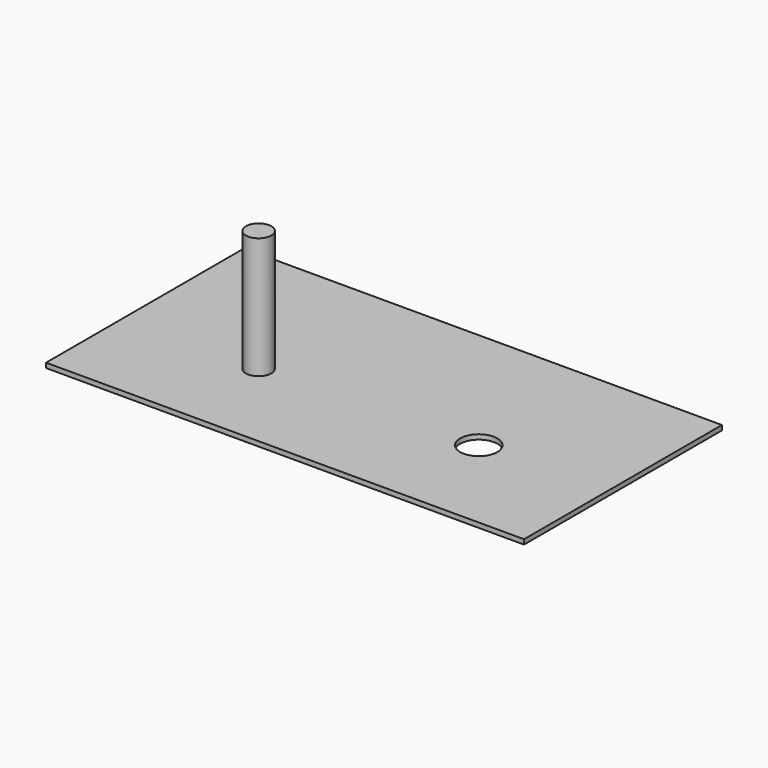
from build123d import *

# Parameters (mm, degrees)
F0_W     = 99.991299
F0_H     = 51.749203
F1_DEPTH = 1
F2_R     = 3.884772
F3_DEPTH = 1.001
F4_R     = 2.651648
F5_DEPTH = 25.4


with BuildPart() as f1:
    # F0 (on Top) → F1 (new body)
    with BuildSketch(Plane.XY):
        with Locations((49.995649, 25.874601)):
            Rectangle(F0_W, F0_H)
    extrude(amount=F1_DEPTH)

    # F2 (on face) → F3 (cut, through all)
    with BuildSketch(Plane.XY.offset(1)):
        with Locations((73.43898, 21.35068)):
            Circle(F2_R)
    extrude(amount=-F3_DEPTH, mode=Mode.SUBTRACT)

    # F4 (on face) → F5 (join)
    with BuildSketch(Plane.XY.offset(1)):
        with Locations((28.457584, 20.000773)):
            Circle(F4_R)
    extrude(amount=F5_DEPTH)


solid = f1.part
